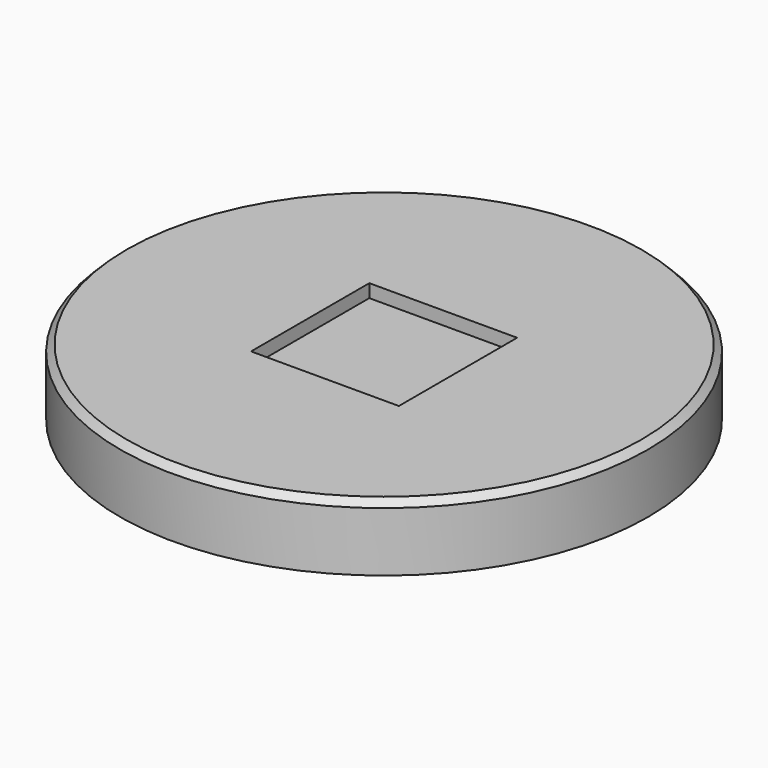
from build123d import *

# Parameters (mm, degrees)
SKETCH001_R     = 20
PAD_DEPTH       = 5
SKETCH_R        = 17.38
POCKET_DEPTH    = 3
CHAMFER_SIZE    = 0.5
SKETCH002_W     = 11.2
SKETCH002_H     = 11.2
POCKET001_DEPTH = 1


with BuildPart() as part:
    # Sketch001 → Pad (new body)
    with BuildSketch(Plane.XY):
        Circle(SKETCH001_R)
    extrude(amount=PAD_DEPTH)

    # Sketch → Pocket (cut)
    with BuildSketch(Plane.XY):
        Circle(SKETCH_R)
        with BuildLine():
            ThreePointArc((-6.55, 11.55), (-10.085534, 10.085534), (-11.55, 6.55))
            Line((-11.55, -6.55), (-11.55, 6.55))
            ThreePointArc((-11.55, -6.55), (-10.085534, -10.085534), (-6.55, -11.55))
            Line((6.55, -11.55), (-6.55, -11.55))
            ThreePointArc((6.55, -11.55), (10.085534, -10.085534), (11.55, -6.55))
            Line((11.55, 6.55), (11.55, -6.55))
            ThreePointArc((11.55, 6.55), (10.085534, 10.085534), (6.55, 11.55))
            Line((-6.55, 11.55), (6.55, 11.55))
        make_face(mode=Mode.SUBTRACT)
    extrude(amount=POCKET_DEPTH, mode=Mode.SUBTRACT)

    # Chamfer
    chamfer_edges = [part.edges().sort_by_distance(p)[0] for p in [
        (0, 11.55, 0),
        (10.085534, 10.085534, 0),
        (11.55, 0, 0),
        (10.085534, -10.085534, 0),
        (0, -11.55, 0),
        (-10.085534, -10.085534, 0),
        (-11.55, 0, 0),
        (-10.085534, 10.085534, 0),
        (-17.38, 0, 0),
        (-20, 0, 5),
    ]]
    chamfer(chamfer_edges, length=CHAMFER_SIZE)

    # Sketch002 (on DatumPlane) → Pocket001 (cut)
    with BuildSketch(Plane.XY.offset(5)):
        Rectangle(SKETCH002_W, SKETCH002_H)
    extrude(amount=-POCKET001_DEPTH, mode=Mode.SUBTRACT)


solid = part.part
